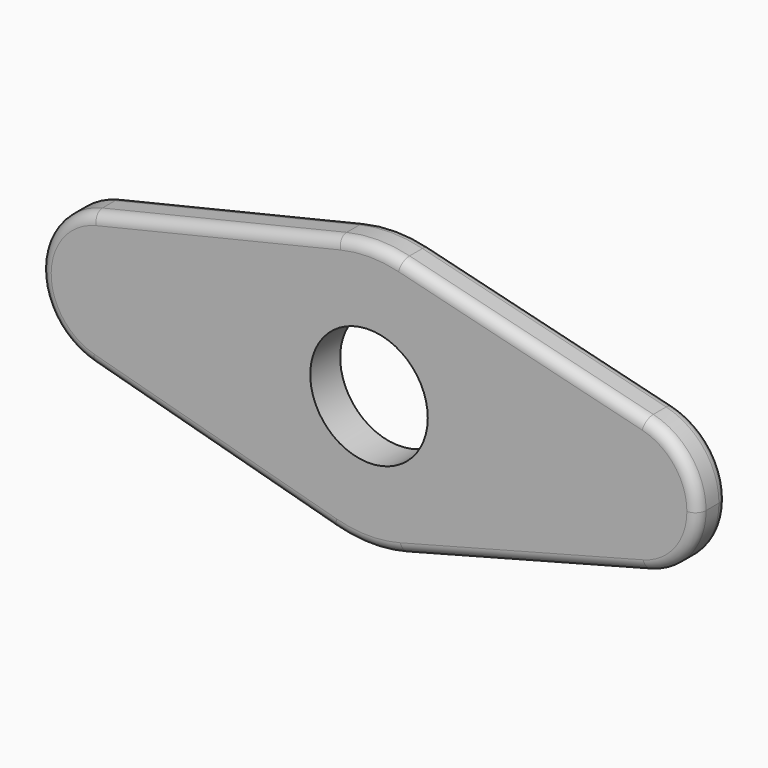
from build123d import *

# Parameters (mm, degrees)
F0_R     = 11
F1_DEPTH = 7
F2_R     = 2


with BuildPart() as f1:
    # F0 (on Front) → F1 (new body)
    with BuildSketch(Plane.XZ):
        with BuildLine():
            ThreePointArc((-35.500934, 0.812058), (-40.440557, 11.011584), (-51.505599, 13.460061))
            ThreePointArc((-51.505599, 13.460061), (-61.499112, 1.029688), (-51.927331, -11.728269))
            ThreePointArc((-51.927331, -11.728269), (-40.612435, -9.520976), (-35.500934, 0.812058))
        make_face()
        with BuildLine():
            ThreePointArc((-6.589226, -24.116013), (-24.996497, 0.41852), (-5.778203, 24.323083))
            Line((-5.778203, 24.323083), (-51.505599, 13.460061))
            ThreePointArc((-51.505599, 13.460061), (-40.440557, 11.011584), (-35.500934, 0.812058))
            ThreePointArc((-35.500934, 0.812058), (-40.612435, -9.520976), (-51.927331, -11.728269))
            Line((-51.927331, -11.728269), (-6.589226, -24.116013))
        make_face()
        with BuildLine():
            ThreePointArc((6.368804, -24.175159), (19.801769, -15.260732), (25, 0))
            ThreePointArc((25, 0), (19.68502, 15.411035), (6, 24.269322))
            ThreePointArc((6, 24.269322), (0.11411, 24.99974), (-5.778203, 24.323083))
            ThreePointArc((-5.778203, 24.323083), (-24.996497, 0.41852), (-6.589226, -24.116013))
            ThreePointArc((-6.589226, -24.116013), (-0.11411, -24.99974), (6.368804, -24.175159))
        make_face()
        Circle(F0_R, mode=Mode.SUBTRACT)
        with BuildLine():
            ThreePointArc((6, 24.269322), (19.68502, 15.411035), (25, 0))
            ThreePointArc((25, 0), (19.801769, -15.260732), (6.368804, -24.175159))
            Line((6.368804, -24.175159), (51.818104, -12.201808))
            ThreePointArc((51.818104, -12.201808), (35.506702, 0.27031), (51.626326, 12.989323))
            Line((51.626326, 12.989323), (6, 24.269322))
        make_face()
        with BuildLine():
            ThreePointArc((61.506326, 0.369275), (58.742536, 8.383013), (51.626326, 12.989323))
            ThreePointArc((51.626326, 12.989323), (35.506702, 0.27031), (51.818104, -12.201808))
            ThreePointArc((51.818104, -12.201808), (58.803246, -7.566306), (61.506326, 0.369275))
        make_face()
    extrude(amount=F1_DEPTH)

    # F2
    f2_edges = [f1.edges().sort_by_distance(p)[0] for p in [
        (-28.641901, -7, 18.891572),
        (28.813163, 0, 18.629323),
    ]]
    fillet(f2_edges, radius=F2_R)


solid = f1.part
